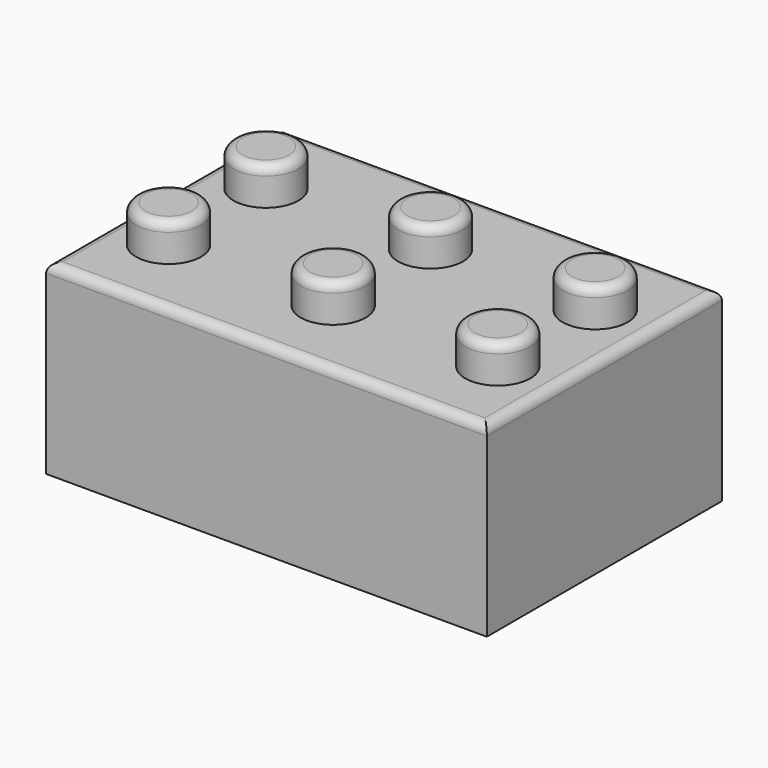
from build123d import *

# Parameters (mm, degrees)
F0_W     = 23.7
F0_H     = 15.8
F2_DEPTH = 10
F3_W     = 19.7
F3_H     = 11.8
F4_DEPTH = 8
F5_R     = 1.75
F6_DEPTH = 2
F7_R     = 3.753967
F7_R_2   = 3
F9_DEPTH = 8
F10_R    = 0.5
F11_R    = 0.5


with BuildPart() as f2:
    # F0 (on Top) → F2 (new body)
    with BuildSketch(Plane.XY):
        with Locations((0.531648, -6.700218)):
            Rectangle(F0_W, F0_H)
    extrude(amount=F2_DEPTH)

    # F3 (on face) → F4 (cut)
    with BuildSketch(Plane(origin=(0, 0, 0), x_dir=(1, 0, 0), z_dir=(0, 0, -1))):
        with Locations((0.531648, 6.700218)):
            Rectangle(F3_W, F3_H)
    extrude(amount=-F4_DEPTH, mode=Mode.SUBTRACT)

    # F5 (on face) → F6 (join)
    with BuildSketch(Plane.XY.offset(10)):
        with Locations((-8.318352, -10.116949)):
            Circle(F5_R)
        with Locations((0.531648, -10.116949)):
            Circle(F5_R)
        with Locations((9.381648, -10.116949)):
            Circle(F5_R)
        with Locations((0.531648, -3.570797)):
            Circle(F5_R)
        with Locations((9.381648, -3.570797)):
            Circle(F5_R)
        with Locations((-8.318352, -3.570797)):
            Circle(F5_R)
    extrude(amount=F6_DEPTH)

    # F7 (on face) → F9 (join)
    with BuildSketch(Plane(origin=(0, 0, 8), x_dir=(1, 0, 0), z_dir=(0, 0, -1))):
        with Locations((-3.893352, 6.843873)):
            Circle(F7_R)
        with Locations((-3.893352, 6.843873)):
            Circle(F7_R_2, mode=Mode.SUBTRACT)
        with BuildLine():
            ThreePointArc((8.710615, 6.843873), (1.391402, 8.019154), (7.974709, 4.61148))
            ThreePointArc((7.974709, 4.61148), (8.521895, 5.668592), (8.710615, 6.843873))
        make_face()
        with Locations((4.956648, 6.843873)):
            Circle(F7_R_2, mode=Mode.SUBTRACT)
    extrude(amount=F9_DEPTH)

    # F10
    f10_edges = [f2.edges().sort_by_distance(p)[0] for p in [
        (-1.218352, -10.116949, 12),
        (-10.068352, -10.116949, 12),
        (-10.068352, -3.570797, 12),
        (7.631648, -3.570797, 12),
        (7.631648, -10.116949, 12),
        (-1.218352, -3.570797, 12),
    ]]
    fillet(f10_edges, radius=F10_R)

    # F11
    f11_edges = [f2.edges().sort_by_distance(p)[0] for p in [
        (0.531648, -14.600218, 10),
        (12.381648, -6.700218, 10),
        (0.531648, 1.199782, 10),
        (-11.318352, -6.700218, 10),
    ]]
    fillet(f11_edges, radius=F11_R)


solid = f2.part
